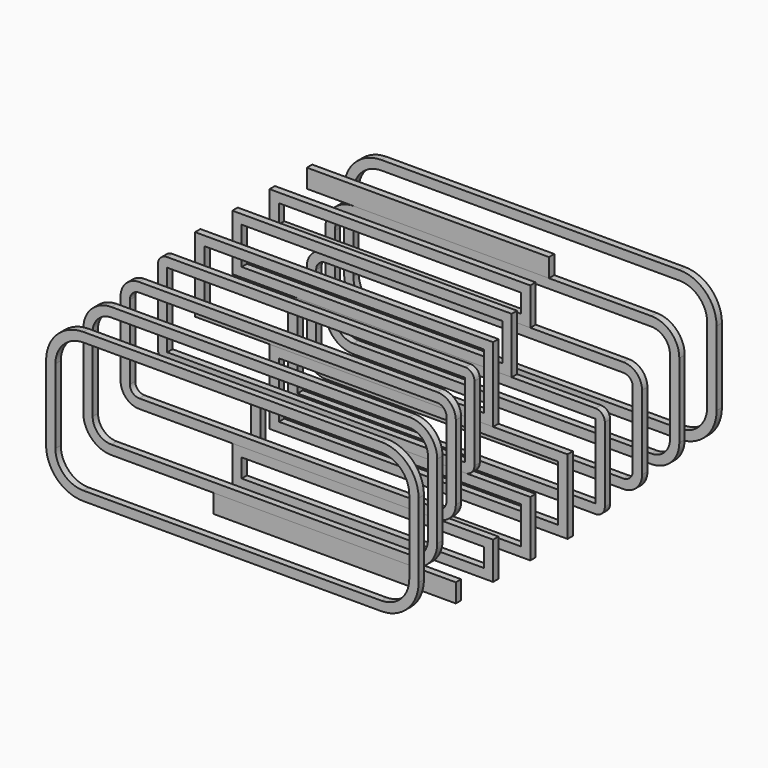
from build123d import *

# Parameters (mm, degrees)
F6_DEPTH  = 18
F7_DEPTH  = 18
F8_DEPTH  = 18
F5_W      = 800
F5_H      = 200
F9_DEPTH  = 18
F5_W_2    = 750
F5_H_2    = 150
F10_DEPTH = 18
F5_W_3    = 700
F5_H_3    = 100
F11_DEPTH = 18
F5_W_4    = 650
F5_H_4    = 50
F12_DEPTH = 18
F13_DEPTH = 18
F22_ANGLE = 180


with BuildPart() as f6:
    # F5 (on Front) → F6 (new body)
    with BuildSketch(Plane.XZ):
        with BuildLine():
            Line((-900, 0), (-100, 0))
            ThreePointArc((-100, 0), (-29.2893218813, 29.2893218813), (0, 100))
            Line((0, 100), (0, 300))
            ThreePointArc((0, 300), (-29.2893218813, 370.7106781187), (-100, 400))
            Line((-100, 400), (-900, 400))
            ThreePointArc((-900, 400), (-970.7106781187, 370.7106781187), (-1000, 300))
            Line((-1000, 300), (-1000, 100))
            ThreePointArc((-1000, 100), (-970.7106781187, 29.2893218813), (-900, 0))
        make_face()
        with BuildLine():
            ThreePointArc((-900, 25), (-953.033008589, 46.966991411), (-975, 100))
            Line((-975, 100), (-975, 300))
            ThreePointArc((-975, 300), (-953.033008589, 353.033008589), (-900, 375))
            Line((-900, 375), (-100, 375))
            ThreePointArc((-100, 375), (-46.966991411, 353.033008589), (-25, 300))
            Line((-25, 300), (-25, 100))
            ThreePointArc((-25, 100), (-46.966991411, 46.966991411), (-100, 25))
            Line((-100, 25), (-900, 25))
        make_face(mode=Mode.SUBTRACT)
    extrude(amount=F6_DEPTH)


with BuildPart() as f7:
    # F5 (on Front) → F7 (new body)
    with BuildSketch(Plane.XZ):
        with BuildLine():
            Line((-975, 300), (-975, 100))
            ThreePointArc((-975, 100), (-953.033008589, 46.966991411), (-900, 25))
            Line((-900, 25), (-100, 25))
            ThreePointArc((-100, 25), (-46.966991411, 46.966991411), (-25, 100))
            Line((-25, 100), (-25, 300))
            ThreePointArc((-25, 300), (-46.966991411, 353.033008589), (-100, 375))
            Line((-100, 375), (-900, 375))
            ThreePointArc((-900, 375), (-953.033008589, 353.033008589), (-975, 300))
        make_face()
        with BuildLine():
            ThreePointArc((-100, 350), (-64.6446609407, 335.3553390593), (-50, 300))
            Line((-50, 300), (-50, 100))
            ThreePointArc((-50, 100), (-64.6446609407, 64.6446609407), (-100, 50))
            Line((-100, 50), (-900, 50))
            ThreePointArc((-900, 50), (-935.3553390593, 64.6446609407), (-950, 100))
            Line((-950, 100), (-950, 300))
            ThreePointArc((-950, 300), (-935.3553390593, 335.3553390593), (-900, 350))
            Line((-900, 350), (-100, 350))
        make_face(mode=Mode.SUBTRACT)
    extrude(amount=F7_DEPTH)


with BuildPart() as f8:
    # F5 (on Front) → F8 (new body)
    with BuildSketch(Plane.XZ):
        with BuildLine():
            Line((-50, 100), (-50, 300))
            ThreePointArc((-50, 300), (-64.6446609407, 335.3553390593), (-100, 350))
            Line((-100, 350), (-900, 350))
            ThreePointArc((-900, 350), (-935.3553390593, 335.3553390593), (-950, 300))
            Line((-950, 300), (-950, 100))
            ThreePointArc((-950, 100), (-935.3553390593, 64.6446609407), (-900, 50))
            Line((-900, 50), (-100, 50))
            ThreePointArc((-100, 50), (-64.6446609407, 64.6446609407), (-50, 100))
        make_face()
        with BuildLine():
            Line((-900, 325), (-100, 325))
            ThreePointArc((-100, 325), (-82.3223304703, 317.6776695297), (-75, 300))
            Line((-75, 300), (-75, 100))
            ThreePointArc((-75, 100), (-82.3223304703, 82.3223304703), (-100, 75))
            Line((-100, 75), (-900, 75))
            ThreePointArc((-900, 75), (-917.6776695297, 82.3223304703), (-925, 100))
            Line((-925, 100), (-925, 300))
            ThreePointArc((-925, 300), (-917.6776695297, 317.6776695297), (-900, 325))
        make_face(mode=Mode.SUBTRACT)
    extrude(amount=F8_DEPTH)


with BuildPart() as f9:
    # F5 (on Front) → F9 (new body)
    with BuildSketch(Plane.XZ):
        with BuildLine():
            ThreePointArc((-75, 300), (-82.3223304703, 317.6776695297), (-100, 325))
            Line((-100, 325), (-900, 325))
            ThreePointArc((-900, 325), (-917.6776695297, 317.6776695297), (-925, 300))
            Line((-925, 300), (-925, 100))
            ThreePointArc((-925, 100), (-917.6776695297, 82.3223304703), (-900, 75))
            Line((-900, 75), (-100, 75))
            ThreePointArc((-100, 75), (-82.3223304703, 82.3223304703), (-75, 100))
            Line((-75, 100), (-75, 300))
        make_face()
        with Locations((-500, 200)):
            Rectangle(F5_W, F5_H, mode=Mode.SUBTRACT)
    extrude(amount=F9_DEPTH)


with BuildPart() as f10:
    # F5 (on Front) → F10 (new body)
    with BuildSketch(Plane.XZ):
        with Locations((-500, 200)):
            Rectangle(F5_W, F5_H)
        with Locations((-500, 200)):
            Rectangle(F5_W_2, F5_H_2, mode=Mode.SUBTRACT)
    extrude(amount=F10_DEPTH)


with BuildPart() as f11:
    # F5 (on Front) → F11 (new body)
    with BuildSketch(Plane.XZ):
        with Locations((-500, 200)):
            Rectangle(F5_W_2, F5_H_2)
        with Locations((-500, 200)):
            Rectangle(F5_W_3, F5_H_3, mode=Mode.SUBTRACT)
    extrude(amount=F11_DEPTH)


with BuildPart() as f12:
    # F5 (on Front) → F12 (new body)
    with BuildSketch(Plane.XZ):
        with Locations((-500, 200)):
            Rectangle(F5_W_3, F5_H_3)
        with Locations((-500, 200)):
            Rectangle(F5_W_4, F5_H_4, mode=Mode.SUBTRACT)
    extrude(amount=F12_DEPTH)


with BuildPart() as f13:
    # F5 (on Front) → F13 (new body)
    with BuildSketch(Plane.XZ):
        with Locations((-500, 200)):
            Rectangle(F5_W_4, F5_H_4)
    extrude(amount=F13_DEPTH)


with BuildPart() as f7_1:
    # F14: moved
    add(f7.part.moved(Location((-25, 125, 25))))


with BuildPart() as f8_1:
    # F15: moved
    add(f8.part.moved(Location((-50, 250, 50))))


with BuildPart() as f9_1:
    # F16: moved
    add(f9.part.moved(Location((-75, 375, 75))))


with BuildPart() as f10_1:
    # F17: moved
    add(f10.part.moved(Location((-100, 500, 100))))


with BuildPart() as f11_1:
    # F18: moved
    add(f11.part.moved(Location((-125, 625, 125))))


with BuildPart() as f12_1:
    # F19: moved
    add(f12.part.moved(Location((-150, 750, 150))))


with BuildPart() as f13_1:
    # F20: moved
    add(f13.part.moved(Location((-175, 875, 175))))


with BuildPart() as f21_1:
    # F21: instance of F6
    add(f6.part.mirror(Plane.YZ))


with BuildPart() as f21_2:
    # F21: instance of F8
    add(f8_1.part.mirror(Plane.YZ))


with BuildPart() as f21_3:
    # F21: instance of F7
    add(f7_1.part.mirror(Plane.YZ))


with BuildPart() as f21_4:
    # F21: instance of F13
    add(f13_1.part.mirror(Plane.YZ))


with BuildPart() as f21_5:
    # F21: instance of F12
    add(f12_1.part.mirror(Plane.YZ))


with BuildPart() as f21_6:
    # F21: instance of F11
    add(f11_1.part.mirror(Plane.YZ))


with BuildPart() as f21_7:
    # F21: instance of F9
    add(f9_1.part.mirror(Plane.YZ))


with BuildPart() as f21_8:
    # F21: instance of F10
    add(f10_1.part.mirror(Plane.YZ))


with BuildPart() as f21_2_1:
    # F22: moved
    add(f21_2.part.rotate(Axis((500, -18, 0), (1, 0, 0)), F22_ANGLE))


with BuildPart() as f21_7_1:
    # F22: moved
    add(f21_7.part.rotate(Axis((500, -18, 0), (1, 0, 0)), F22_ANGLE))


with BuildPart() as f21_5_1:
    # F22: moved
    add(f21_5.part.rotate(Axis((500, -18, 0), (1, 0, 0)), F22_ANGLE))


with BuildPart() as f21_3_1:
    # F22: moved
    add(f21_3.part.rotate(Axis((500, -18, 0), (1, 0, 0)), F22_ANGLE))


with BuildPart() as f21_8_1:
    # F22: moved
    add(f21_8.part.rotate(Axis((500, -18, 0), (1, 0, 0)), F22_ANGLE))


with BuildPart() as f21_4_1:
    # F22: moved
    add(f21_4.part.rotate(Axis((500, -18, 0), (1, 0, 0)), F22_ANGLE))


with BuildPart() as f21_6_1:
    # F22: moved
    add(f21_6.part.rotate(Axis((500, -18, 0), (1, 0, 0)), F22_ANGLE))


with BuildPart() as f21_1_1:
    # F22: moved
    add(f21_1.part.rotate(Axis((500, -18, 0), (1, 0, 0)), F22_ANGLE))


with BuildPart() as f21_8_2:
    # F23: moved
    add(f21_8_1.part.moved(Location((-1000, 1018, 400))))


with BuildPart() as f21_7_2:
    # F23: moved
    add(f21_7_1.part.moved(Location((-1000, 1018, 400))))


with BuildPart() as f21_4_2:
    # F23: moved
    add(f21_4_1.part.moved(Location((-1000, 1018, 400))))


with BuildPart() as f21_6_2:
    # F23: moved
    add(f21_6_1.part.moved(Location((-1000, 1018, 400))))


with BuildPart() as f21_2_2:
    # F23: moved
    add(f21_2_1.part.moved(Location((-1000, 1018, 400))))


with BuildPart() as f21_3_2:
    # F23: moved
    add(f21_3_1.part.moved(Location((-1000, 1018, 400))))


with BuildPart() as f21_5_2:
    # F23: moved
    add(f21_5_1.part.moved(Location((-1000, 1018, 400))))


with BuildPart() as f21_1_2:
    # F23: moved
    add(f21_1_1.part.moved(Location((-1000, 1018, 400))))


solid = Compound([f6.part, f7_1.part, f8_1.part, f9_1.part, f10_1.part, f11_1.part, f12_1.part, f13_1.part, f21_8_2.part, f21_7_2.part, f21_4_2.part, f21_6_2.part, f21_2_2.part, f21_3_2.part, f21_5_2.part, f21_1_2.part])
